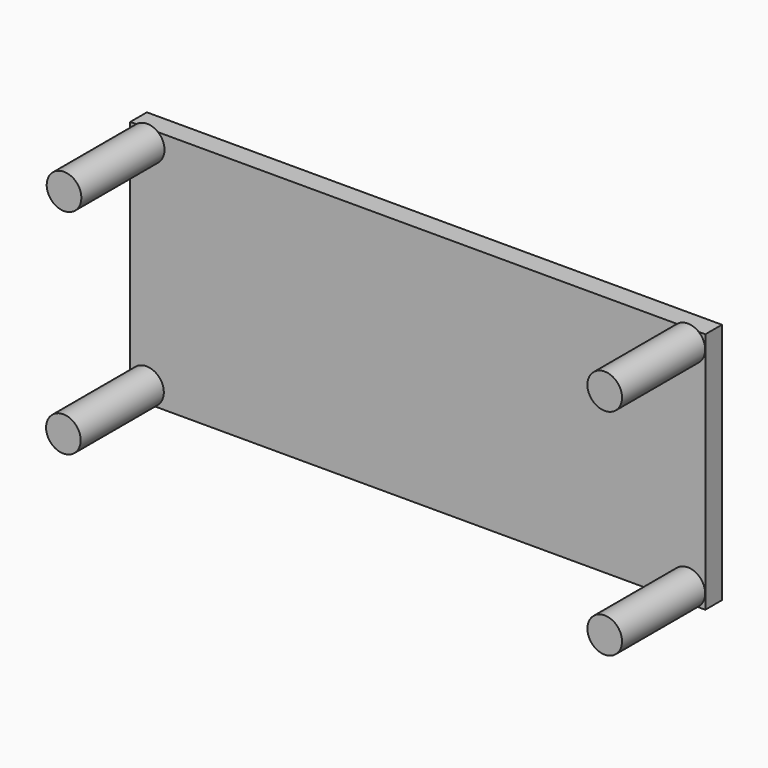
from build123d import *

# Parameters (mm, degrees)
F0_W      = 83
F0_H      = 35
F1_DEPTH  = 3
F6_R      = 2.5
F7_DEPTH  = 15
F3_R      = 2.5
F8_DEPTH  = 15
F4_R      = 2.5
F9_DEPTH  = 15
F10_DEPTH = 15
F5_R      = 2.5
F11_DEPTH = 15


with BuildPart() as f1:
    # F0 (on Front) → F1 (new body)
    with BuildSketch(Plane.XZ):
        Rectangle(F0_W, F0_H)
    extrude(amount=F1_DEPTH)

    # F6 (on face) → F7 (join)
    with BuildSketch(Plane.XZ.offset(3)):
        with Locations((-39.1526, -15.285481)):
            Circle(F6_R)
    extrude(amount=F7_DEPTH)

    # F3 (on face) → F8 (join)
    with BuildSketch(Plane.XZ.offset(3)):
        with Locations((-39.057095, 15.556678)):
            Circle(F3_R)
    extrude(amount=F8_DEPTH)

    # F4 (on face) → F9 (join)
    with BuildSketch(Plane.XZ.offset(3)):
        with Locations((38.984798, 15.55259)):
            Circle(F4_R)
    extrude(amount=F9_DEPTH)

    # F6 (on face) → F10 (join)
    with BuildSketch(Plane.XZ.offset(3)):
        with Locations((-39.1526, -15.285481)):
            Circle(F6_R)
    extrude(amount=F10_DEPTH)

    # F5 (on face) → F11 (join)
    with BuildSketch(Plane.XZ.offset(3)):
        with Locations((38.981859, -15.430422)):
            Circle(F5_R)
    extrude(amount=F11_DEPTH)


solid = f1.part
